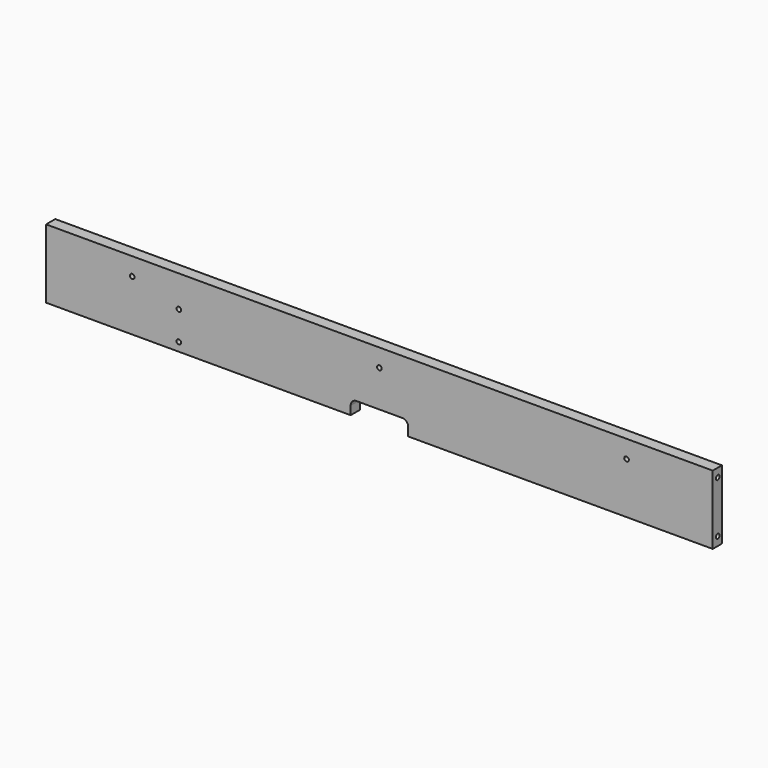
from build123d import *

# Parameters (mm, degrees)
F0_W           = 1160
F0_H           = 120
F1_DEPTH       = 20
F3_DEPTH       = 20.001
F8_D           = 8
F8_DEPTH       = 30
F8_TIP         = 2.4034424761
F8_ON_F5_D     = 8
F8_ON_F5_DEPTH = 30
F8_ON_F5_TIP   = 2.4034424761
F8_ON_F7_D     = 8
F8_ON_F7_DEPTH = 30
F8_ON_F7_TIP   = 2.4034424761
F9_D           = 8
F9_DEPTH       = 10
F9_TIP         = 2.4034424761


with BuildPart() as f1:
    # F0 (on Front) → F1 (new body)
    with BuildSketch(Plane.XZ):
        Rectangle(F0_W, F0_H)
        Rectangle(F0_W, F0_H)
    extrude(amount=F1_DEPTH)

    # F2 (on face) → F3 (cut, through all)
    with BuildSketch(Plane.XZ.offset(20)):
        with BuildLine():
            Line((-50, -45), (-50, -60))
            Line((-50, -60), (50, -60))
            Line((50, -60), (50, -45))
            ThreePointArc((50, -45), (47.0710678119, -37.9289321881), (40, -35))
            Line((40, -35), (-40, -35))
            ThreePointArc((-40, -35), (-47.0710678119, -37.9289321881), (-50, -45))
        make_face()
    extrude(amount=-F3_DEPTH, mode=Mode.SUBTRACT)

    # F8
    with Locations(Plane(origin=(-580, 0, 0), x_dir=(0, -1, 0), z_dir=(-1, 0, 0))):
        with Locations((9, 45), (9, -45)):
            Hole(F8_D / 2, depth=F8_DEPTH)
            with Locations((0, 0, -(F8_DEPTH + F8_TIP / 2))):  # 118° drill point
                Cone(0, F8_D / 2, F8_TIP, mode=Mode.SUBTRACT)

    # F8 on F5
    with Locations(Plane.YZ.offset(580)):
        with Locations((-9, 45), (-9, -45)):
            Hole(F8_ON_F5_D / 2, depth=F8_ON_F5_DEPTH)
            with Locations((0, 0, -(F8_ON_F5_DEPTH + F8_ON_F5_TIP / 2))):  # 118° drill point
                Cone(0, F8_ON_F5_D / 2, F8_ON_F5_TIP, mode=Mode.SUBTRACT)

    # F8 on F7
    with Locations(Plane(origin=(0, 0, -60), x_dir=(1, 0, 0), z_dir=(0, 0, -1))):
        with Locations((-430, 9), (-150, 9), (150, 9), (430, 9)):
            Hole(F8_ON_F7_D / 2, depth=F8_ON_F7_DEPTH)
            with Locations((0, 0, -(F8_ON_F7_DEPTH + F8_ON_F7_TIP / 2))):  # 118° drill point
                Cone(0, F8_ON_F7_D / 2, F8_ON_F7_TIP, mode=Mode.SUBTRACT)

    # F9
    with Locations(Plane.XZ.offset(20)):
        with Locations((430, 29), (0, 29), (-430, 29), (-349, -45), (-349, 5)):
            Hole(F9_D / 2, depth=F9_DEPTH)
            with Locations((0, 0, -(F9_DEPTH + F9_TIP / 2))):  # 118° drill point
                Cone(0, F9_D / 2, F9_TIP, mode=Mode.SUBTRACT)


solid = f1.part
